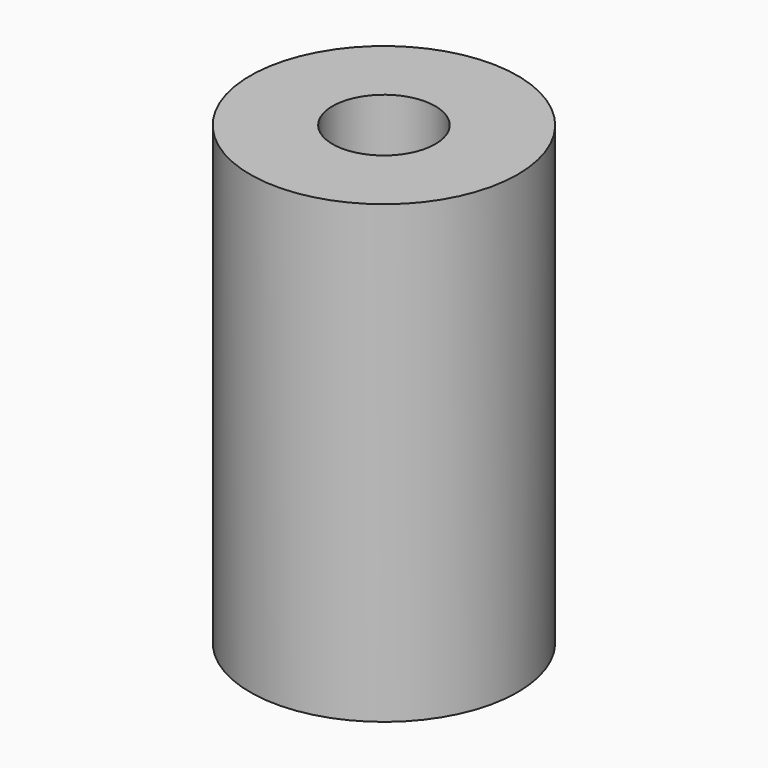
from build123d import *

# Parameters (mm, degrees)
F0_R      = 24.946026
F1_DEPTH  = 75.1
F2_R      = 9.571884
F2_R_2    = 24.946026
F1_FACE_R = 24.946026
F3_DEPTH  = 85
F4_R      = 9.504861
F5_DEPTH  = 84.9
F6_R      = 9.521751
F7_DEPTH  = 84.7
F8_R      = 9.589017
F9_DEPTH  = 94.3


with BuildPart() as f1:
    # F0 (on Top) → F1 (new body)
    with BuildSketch(Plane.XY):
        Circle(F0_R)
    extrude(amount=F1_DEPTH)

    # F2 (on face) + F1_face (on face) → F3 (join)
    with BuildSketch(Plane(origin=(0, 0, 0), x_dir=(1, 0, 0), z_dir=(0, 0, -1))):
        Circle(F2_R)
        Circle(F2_R_2)
        Circle(F2_R, mode=Mode.SUBTRACT)
    with BuildSketch(Plane(origin=(0, 0, 0), x_dir=(1, 0, 0), z_dir=(0, 0, -1))):
        Circle(F1_FACE_R)
    extrude(amount=-F3_DEPTH)

    # F4 (on face) → F5 (join)
    with BuildSketch(Plane.XY.offset(85)):
        Circle(F4_R)
    extrude(amount=-F5_DEPTH)

    # F6 (on face) → F7 (join)
    with BuildSketch(Plane(origin=(0, 0, 0), x_dir=(1, 0, 0), z_dir=(0, 0, -1))):
        Circle(F6_R)
    extrude(amount=-F7_DEPTH)

    # F8 (on Top) → F9 (cut)
    with BuildSketch(Plane.XY):
        Circle(F8_R)
    extrude(amount=F9_DEPTH, mode=Mode.SUBTRACT)


solid = f1.part
